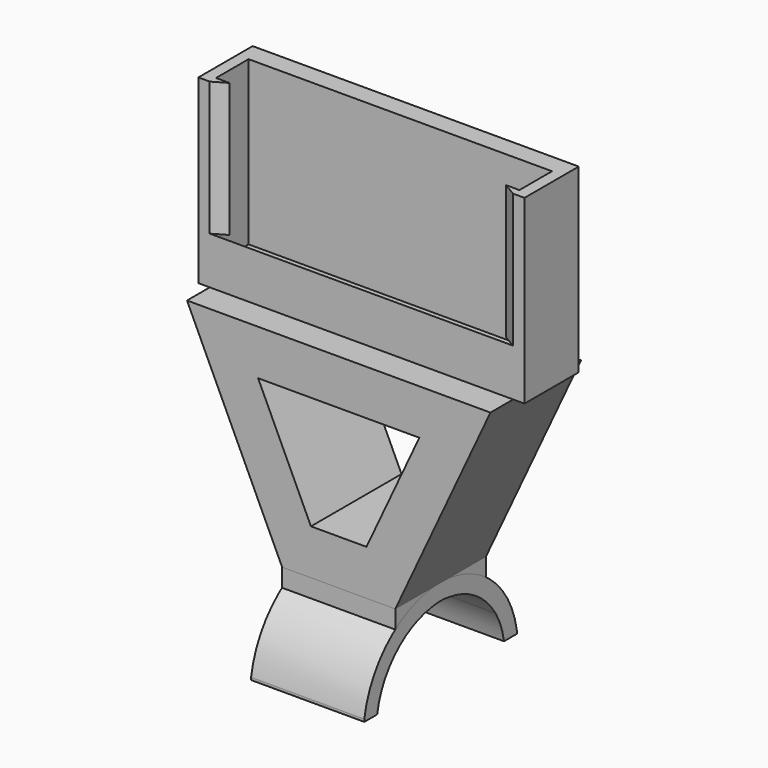
from build123d import *

# Parameters (mm, degrees)
F1_DEPTH  = 12.5
F3_DEPTH  = 12.5
F5_DEPTH  = 25
F6_W      = 72
F6_H      = 9
F7_DEPTH  = 4
F9_DEPTH  = 72
F10_W     = 2.5
F10_H     = 10.446272
F11_DEPTH = 10.7236
F12_W     = 4.25
F12_H     = 40
F13_DEPTH = 72
F15_DEPTH = 29.553728
F17_DEPTH = 29.553728
F19_DEPTH = 25
F21_DEPTH = 25


with BuildPart() as f1:
    # F0 (on Right) → F1 (new body, symmetric)
    with BuildSketch(Plane.YZ):
        with BuildLine():
            Line((11.59111, -3.105829), (14.97185, -4.011695))
            ThreePointArc((14.97185, -4.011695), (0, 15.5), (-14.97185, -4.011695))
            Line((-14.97185, -4.011695), (-11.59111, -3.105829))
            ThreePointArc((-11.59111, -3.105829), (0, 12), (11.59111, -3.105829))
        make_face()
    extrude(amount=F1_DEPTH, both=True)

    # F20 (on face) → F21 (cut)
    with BuildSketch(Plane.YZ.offset(12.5)):
        with BuildLine():
            Line((0.34308, -12.669018), (17.5, -2.983259))
            ThreePointArc((17.5, -2.983259), (0, 11.923873), (-17.5, -2.983259))
            Line((-17.5, -2.983259), (0.34308, -12.669018))
        make_face()
    extrude(amount=-F21_DEPTH, mode=Mode.SUBTRACT)


with BuildPart() as f3:
    # F2 (on Front) → F3 (new body, symmetric)
    with BuildSketch(Plane.XZ):
        Polygon((-33.5, 60.5), (-12.5, 15.5), (12.5, 15.5), (33.5, 60.5), (0, 60.5), align=None)
        Polygon((6.13137, 25.5), (-6.13137, 25.5), (-17.798036, 50.5), (17.798036, 50.5), align=None, mode=Mode.SUBTRACT)
    extrude(amount=F3_DEPTH, both=True)

    # F6 (on face) → F7 (join)
    with BuildSketch(Plane.XY.offset(60.5)):
        Rectangle(F6_W, F6_H)
    extrude(amount=F7_DEPTH)

    # F8 (on face) → F9 (join)
    with BuildSketch(Plane(origin=(-36, 0, 0), x_dir=(0, -1, 0), z_dir=(-1, 0, 0))):
        Polygon((4.5, 69.5), (4.5, 64.5), (4.5, 60.5), (6.2236, 60.5), (6.2236, 70.946272), align=None)
    extrude(amount=-F9_DEPTH)

    # F10 (on face) → F11 (join, through all)
    with BuildSketch(Plane.XZ.offset(6.2236)):
        with Locations((-34.75, 65.723136)):
            Rectangle(F10_W, F10_H)
        with Locations((34.75, 65.723136)):
            Rectangle(F10_W, F10_H)
    extrude(amount=-F11_DEPTH)

    # F12 (on face) → F13 (join, through all)
    with BuildSketch(Plane(origin=(-36, 0, 0), x_dir=(0, -1, 0), z_dir=(-1, 0, 0))):
        with Locations((-6.625, 80.5)):
            Rectangle(F12_W, F12_H)
    extrude(amount=-F13_DEPTH)

    # F14 (on face) → F15 (join, through all)
    with BuildSketch(Plane.XY.offset(70.946272)):
        Polygon((-36, -6.2236), (-33.5, -6.2236), (-30.520873, -4.5036), (-33.5, -4.5036), (-33.5, 4.5), (-36, 4.5), align=None)
    extrude(amount=F15_DEPTH)

    # F16 (on face) → F17 (join, through all)
    with BuildSketch(Plane.XY.offset(70.946272)):
        Polygon((36, 4.5), (33.5, 4.5), (33.5, -4.5036), (30.520873, -4.5036), (33.5, -6.2236), (36, -6.2236), align=None)
    extrude(amount=F17_DEPTH)


with BuildPart() as f5:
    # F4 (on face) → F5 (new body)
    with BuildSketch(Plane(origin=(-12.5, 0, 0), x_dir=(0, -1, 0), z_dir=(-1, 0, 0))):
        with BuildLine():
            ThreePointArc((-12.5, 9.165151), (-7.006788, 13.825879), (0, 15.5))
            Line((0, 15.5), (-12.5, 15.5))
            Line((-12.5, 15.5), (-12.5, 9.165151))
        make_face()
        with BuildLine():
            Line((12.5, 15.5), (0, 15.5))
            ThreePointArc((0, 15.5), (7.006788, 13.825879), (12.5, 9.165151))
            Line((12.5, 9.165151), (12.5, 15.5))
        make_face()
    extrude(amount=-F5_DEPTH)


with BuildPart() as f19:
    # F18 (on face) → F19 (new body)
    with BuildSketch(Plane.YZ.offset(12.5)):
        with BuildLine():
            ThreePointArc((-1.16018, 11.943784), (0, 11.981817), (1.16018, 11.943784))
            ThreePointArc((1.16018, 11.943784), (0, 12), (-1.16018, 11.943784))
        make_face()
        with BuildLine():
            ThreePointArc((-1.16018, 11.943784), (0, 12), (1.16018, 11.943784))
            ThreePointArc((1.16018, 11.943784), (11.948001, 7.345947), (17.5, -2.983259))
            Line((17.5, -2.983259), (21.056369, -2.983259))
            Line((21.056369, -2.983259), (21.056369, -2.424479))
            ThreePointArc((21.056369, -2.424479), (0, 15.581816), (-21.056369, -2.424479))
            Line((-21.056369, -2.424479), (-21.056369, -2.983259))
            Line((-21.056369, -2.983259), (-17.5, -2.983259))
            ThreePointArc((-17.5, -2.983259), (-11.948001, 7.345947), (-1.16018, 11.943784))
        make_face()
    extrude(amount=-F19_DEPTH)


solid = Compound([f1.part, f3.part, f5.part, f19.part])
